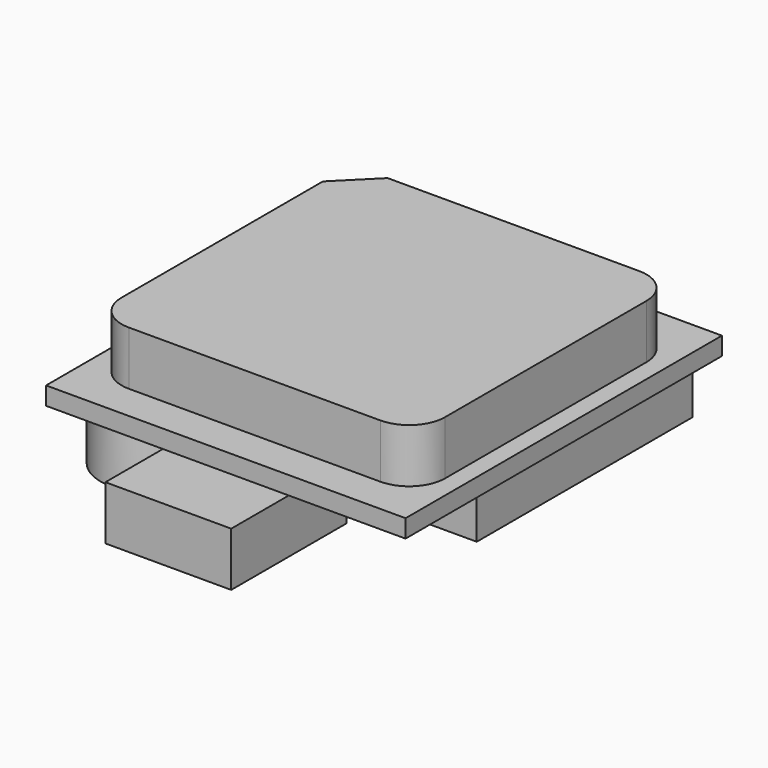
from build123d import *

# Parameters (mm, degrees)
SKETCH_W      = 20
SKETCH_H      = 22
PAD_DEPTH     = 1
PAD001_DEPTH  = 3
SKETCH002_R   = 2.75
SKETCH002_W   = 18
SKETCH002_H   = 15
SKETCH002_W_2 = 7
SKETCH002_H_2 = 8
PAD002_DEPTH  = 3


with BuildPart() as part:
    # Sketch → Pad (new body)
    with BuildSketch(Plane.XY):
        with Locations((0, 11)):
            Rectangle(SKETCH_W, SKETCH_H)
    extrude(amount=PAD_DEPTH)

    # Sketch001 (on Face6 of Pad) → Pad001 (join)
    with BuildSketch(Plane.XY.offset(1)):
        with BuildLine():
            Line((-7, 20), (7, 20))
            ThreePointArc((9, 18), (8.414214, 19.414214), (7, 20))
            Line((9, 18), (9, 4))
            ThreePointArc((7, 2), (8.414214, 2.585786), (9, 4))
            Line((-7, 2), (7, 2))
            ThreePointArc((-9, 4), (-8.414214, 2.585786), (-7, 2))
            Line((-9, 18), (-9, 4))
            Line((-9, 18), (-7, 20))
        make_face()
    extrude(amount=PAD001_DEPTH)

    # Sketch002 (on Face4 of Pad001) → Pad002 (join)
    with BuildSketch(Plane(origin=(0, 0, 0), x_dir=(1, 0, 0), z_dir=(0, 0, -1))):
        with Locations((-6.7, -3.1)):
            Circle(SKETCH002_R)
        with Locations((0, -13.7)):
            Rectangle(SKETCH002_W, SKETCH002_H)
        Rectangle(SKETCH002_W_2, SKETCH002_H_2)
    extrude(amount=PAD002_DEPTH)


solid = part.part
